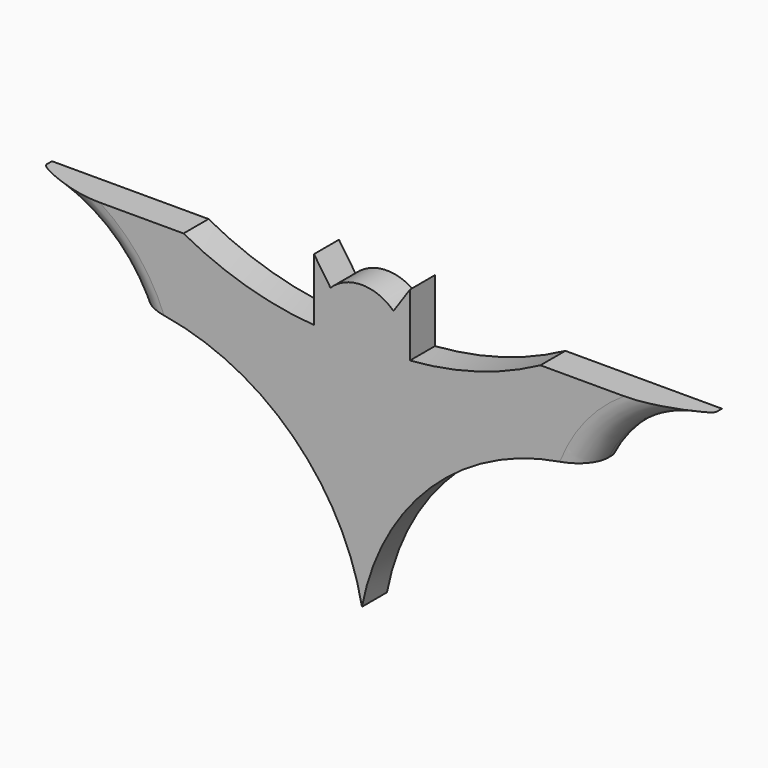
from build123d import *

# Parameters (mm, degrees)
F1_DEPTH = 6.35
F2_R     = 5.08
F3_R     = 5.08


with BuildPart() as f1:
    # F0 (on Front) → F1 (new body)
    with BuildSketch(Plane.XZ):
        with BuildLine():
            ThreePointArc((0, -55.016398), (16.101153, -27.176721), (46.024799, -15.3924))
            ThreePointArc((46.024799, -15.3924), (55.101189, -4.894395), (68.087099, 0))
            Line((68.087099, 0), (36.271196, 0))
            ThreePointArc((36.271196, 0), (23.424104, -5.290842), (9.753601, -7.772401))
            Line((9.753601, -7.772401), (9.753601, 4.927599))
            Line((9.753601, 4.927599), (6.4008, 0))
            ThreePointArc((6.4008, 0), (0, 2.593731), (-6.4008, 0))
            Line((-6.4008, 0), (-9.753601, 4.927599))
            Line((-9.753601, 4.927599), (-9.753601, -7.772401))
            ThreePointArc((-9.753601, -7.772401), (-23.424104, -5.290842), (-36.271196, 0))
            Line((-36.271196, 0), (-68.087099, 0))
            ThreePointArc((-68.087099, 0), (-55.101189, -4.894395), (-46.024799, -15.3924))
            ThreePointArc((-46.024799, -15.3924), (-16.101153, -27.176721), (0, -55.016398))
        make_face()
    extrude(amount=F1_DEPTH)

    # F2
    f2_edges = [f1.edges().sort_by_distance(p)[0] for p in [
        (-55.101189, -6.35, -4.894395),
    ]]
    fillet(f2_edges, radius=F2_R)

    # F3
    f3_edges = [f1.edges().sort_by_distance(p)[0] for p in [
        (55.101189, -6.35, -4.894395),
    ]]
    fillet(f3_edges, radius=F3_R)


solid = f1.part
